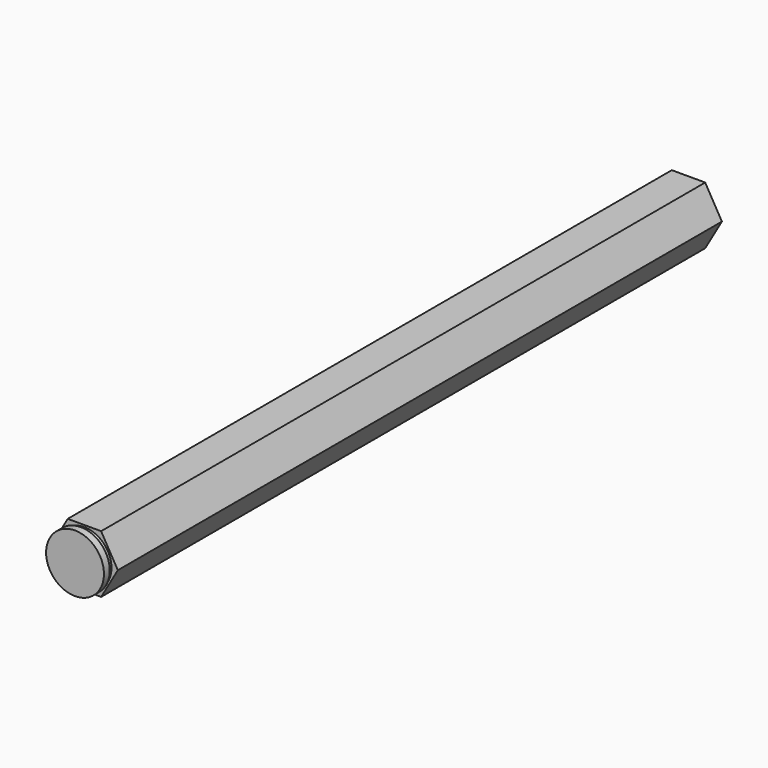
from build123d import *

# Parameters (mm, degrees)
F1_DEPTH = 168.275


with BuildPart() as f1:
    # F0 (on Front) → F1 (new body)
    with BuildSketch(Plane.XZ):
        Polygon((3.6661742094, 6.35), (-3.6661742094, 6.35), (-7.3323484187, 0), (-3.6661742094, -6.35), (3.6661742094, -6.35), (7.3323484187, 0), align=None)
    extrude(amount=F1_DEPTH)

    # F2 (on Top) → F3 (revolve, cut)
    with BuildSketch(Plane.XY):
        Polygon((-5.9436, -165.6969), (-7.3323484187, -165.6969), (-7.3323484187, -168.275), (-6.35, -168.275), (-6.35, -166.6875), (-5.9436, -166.6875), align=None)
    revolve(axis=Axis((0, -84.1375, 0), (0, 1, 0)), mode=Mode.SUBTRACT)


solid = f1.part
